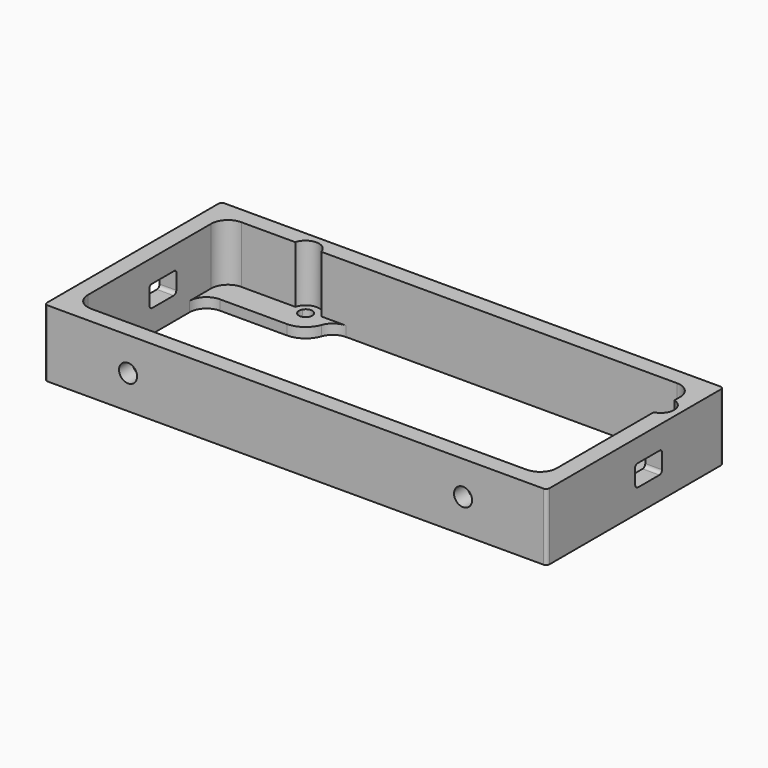
from build123d import *

# Parameters (mm, degrees)
F1_W     = 150
F1_H     = 66
F2_DEPTH = 20
F3_DEPTH = 3
F4_R     = 2.7
F6_DEPTH = 25
F5_W     = 10
F5_H     = 6.4
F7_DEPTH = 160
F8_R     = 5
F9_R     = 1
F10_SIZE = 0.5


with BuildPart() as f2:
    # F1 (on Top) → F2 (new body)
    with BuildSketch(Plane.XY):
        with Locations((0, 10)):
            Rectangle(F1_W, F1_H)
        with BuildLine():
            Line((70, 23.1270166538), (70, 20.0717967697))
            Line((70, 20.0717967697), (70, -13))
            Line((70, -13), (70, -18))
            Line((70, -18), (65, -18))
            Line((65, -18), (-65, -18))
            Line((-65, -18), (-70, -18))
            Line((-70, -18), (-70, -13))
            Line((-70, -13), (-70, 30))
            Line((-70, 30), (-70, 38))
            Line((-70, 38), (-48.8729833462, 38))
            ThreePointArc((-48.8729833462, 38), (-45, 41), (-41.1270166538, 38))
            Line((-41.1270166538, 38), (-38.0717967697, 38))
            Line((-38.0717967697, 38), (62, 38))
            Line((62, 38), (70, 38))
            Line((70, 38), (70, 30.8729833462))
            ThreePointArc((70, 30.8729833462), (72.1622776602, 29.4494897428), (73, 27))
            ThreePointArc((73, 27), (72.1622776602, 24.5505102572), (70, 23.1270166538))
        make_face(mode=Mode.SUBTRACT)
    extrude(amount=F2_DEPTH)

    # F1 (on Top) → F3 (join)
    with BuildSketch(Plane.XY):
        with BuildLine():
            ThreePointArc((-45, 30), (-39.7084973779, 32.417424305), (-38.0717967697, 38))
            Line((-38.0717967697, 38), (-41.1270166538, 38))
            ThreePointArc((-41.1270166538, 38), (-41.0318812149, 37.5040171699), (-41, 37))
            ThreePointArc((-41, 37), (-45.5040171699, 33.0318812149), (-48.8729833462, 38))
            Line((-48.8729833462, 38), (-70, 38))
            Line((-70, 38), (-70, 30))
            Line((-70, 30), (-45, 30))
        make_face()
        with BuildLine():
            ThreePointArc((62, 27), (64.417424305, 21.7084973779), (70, 20.0717967697))
            Line((70, 20.0717967697), (70, 23.1270166538))
            ThreePointArc((70, 23.1270166538), (65, 27), (70, 30.8729833462))
            Line((70, 30.8729833462), (70, 38))
            Line((70, 38), (62, 38))
            Line((62, 38), (62, 27))
        make_face()
        with BuildLine():
            Line((70, 25.2679491924), (70, 23.1270166538))
            ThreePointArc((70, 23.1270166538), (72.1622776602, 24.5505102572), (73, 27))
            ThreePointArc((73, 27), (72.1622776602, 29.4494897428), (70, 30.8729833462))
            Line((70, 30.8729833462), (70, 28.7320508076))
            ThreePointArc((70, 28.7320508076), (70.7320508076, 28), (71, 27))
            ThreePointArc((71, 27), (70.7320508076, 26), (70, 25.2679491924))
        make_face()
        with BuildLine():
            ThreePointArc((70, 30.8729833462), (65, 27), (70, 23.1270166538))
            Line((70, 23.1270166538), (70, 25.2679491924))
            ThreePointArc((70, 25.2679491924), (67, 27), (70, 28.7320508076))
            Line((70, 28.7320508076), (70, 30.8729833462))
        make_face()
        with BuildLine():
            ThreePointArc((-41, 37), (-41.0318812149, 37.5040171699), (-41.1270166538, 38))
            Line((-41.1270166538, 38), (-43.2679491924, 38))
            ThreePointArc((-43.2679491924, 38), (-43.0681483474, 37.5176380902), (-43, 37))
            ThreePointArc((-43, 37), (-45.5176380902, 35.0681483474), (-46.7320508076, 38))
            Line((-46.7320508076, 38), (-48.8729833462, 38))
            ThreePointArc((-48.8729833462, 38), (-45.5040171699, 33.0318812149), (-41, 37))
        make_face()
        with BuildLine():
            Line((-43.2679491924, 38), (-41.1270166538, 38))
            ThreePointArc((-41.1270166538, 38), (-45, 41), (-48.8729833462, 38))
            Line((-48.8729833462, 38), (-46.7320508076, 38))
            ThreePointArc((-46.7320508076, 38), (-45, 39), (-43.2679491924, 38))
        make_face()
        Polygon((-70, -18), (-65, -18), (-70, -13), align=None)
        Polygon((70, -18), (70, -13), (65, -18), align=None)
    extrude(amount=F3_DEPTH)

    # F4 (on face) → F6 (cut)
    with BuildSketch(Plane.XZ.offset(23)):
        with Locations((-50, 10)):
            Circle(F4_R)
        with Locations((50, 10)):
            Circle(F4_R)
    extrude(amount=-F6_DEPTH, mode=Mode.SUBTRACT)

    # F5 (on face) → F7 (cut)
    with BuildSketch(Plane(origin=(-75, 0, 0), x_dir=(0, -1, 0), z_dir=(-1, 0, 0))):
        with Locations((-15, 10)):
            Rectangle(F5_W, F5_H)
    extrude(amount=-F7_DEPTH, mode=Mode.SUBTRACT)

    # F8
    f8_edges = [f2.edges().sort_by_distance(p)[0] for p in [
        (62, 38, 1.5),
        (-70, 30, 1.5),
        (70, 38, 11.5),
        (-70, 38, 11.5),
        (-70, -18, 11.5),
        (70, -18, 11.5),
        (-38.071797, 38, 1.5),
        (70, 20.071797, 1.5),
    ]]
    fillet(f8_edges, radius=F8_R)

    # F9
    f9_edges = [f2.edges().sort_by_distance(p)[0] for p in [
        (-75, 43, 10),
        (-75, -23, 10),
        (75, -23, 10),
        (75, 43, 10),
        (-72.5, 10, 6.8),
        (-72.5, 20, 6.8),
        (72.5, 20, 6.8),
        (72.5, 10, 6.8),
    ]]
    fillet(f9_edges, radius=F9_R)

    # F10
    f10_edges = [f2.edges().sort_by_distance(p)[0] for p in [
        (-72.5, 10, 13.2),
        (-72.5, 20, 13.2),
        (72.5, 20, 13.2),
        (72.5, 10, 13.2),
    ]]
    chamfer(f10_edges, length=F10_SIZE)


solid = f2.part
